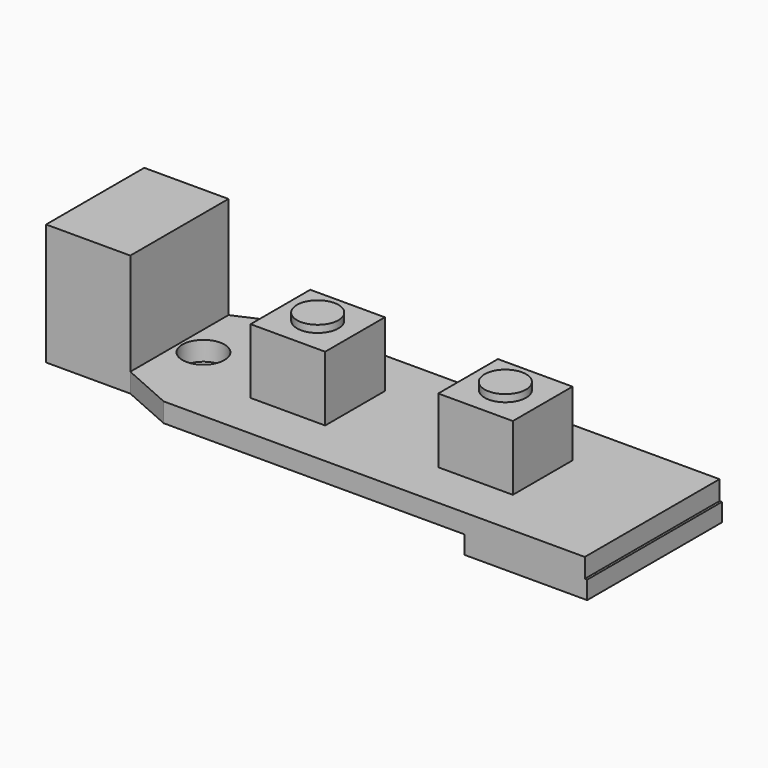
from build123d import *

# Parameters (mm, degrees)
F0_R      = 1.75
F1_DEPTH  = 1.6
F2_W      = 7
F2_H      = 10.2
F3_DEPTH  = 8.5
F4_W      = 6.2
F4_H      = 6.2
F5_DEPTH  = 5.4
F6_R      = 1.725
F7_R      = 1.725
F8_DEPTH  = 0.6
F10_DEPTH = 1.5


with BuildPart() as f1:
    # F0 (on Top) → F1 (new body)
    with BuildSketch(Plane.XY):
        Polygon((-16.15, 5.1), (-23.15, 5.1), (-23.15, -5.1), (-16.15, -5.1), (-11.85, -7), (23.15, -7), (23.15, 7), (-11.85, 7), align=None)
        with Locations((-14.15, 0)):
            Circle(F0_R, mode=Mode.SUBTRACT)
    extrude(amount=F1_DEPTH)

    # F2 (on face) → F3 (join)
    with BuildSketch(Plane.XY.offset(1.6)):
        with Locations((-19.65, 0)):
            Rectangle(F2_W, F2_H)
    extrude(amount=F3_DEPTH)

    # F4 (on face) → F5 (join)
    with BuildSketch(Plane.XY.offset(1.6)):
        with Locations((-4.65, 0)):
            Rectangle(F4_W, F4_H)
        with Locations((10.95, 0)):
            Rectangle(F4_W, F4_H)
    extrude(amount=F5_DEPTH)

    # F6 (on face) + F7 (on face) → F8 (join)
    with BuildSketch(Plane.XY.offset(7)):
        with Locations((-4.65, 0)):
            Circle(F6_R)
    with BuildSketch(Plane.XY.offset(7)):
        with Locations((10.95, 0)):
            Circle(F7_R)
    extrude(amount=F8_DEPTH)

    # F9 (on face) → F10 (join)
    with BuildSketch(Plane(origin=(0, 0, 0), x_dir=(1, 0, 0), z_dir=(0, 0, -1))):
        Polygon((23.35, 7), (23.15, 7), (13.15, 7), (13.15, -7), (23.15, -7), (23.35, -7), align=None)
    extrude(amount=F10_DEPTH)


solid = f1.part
